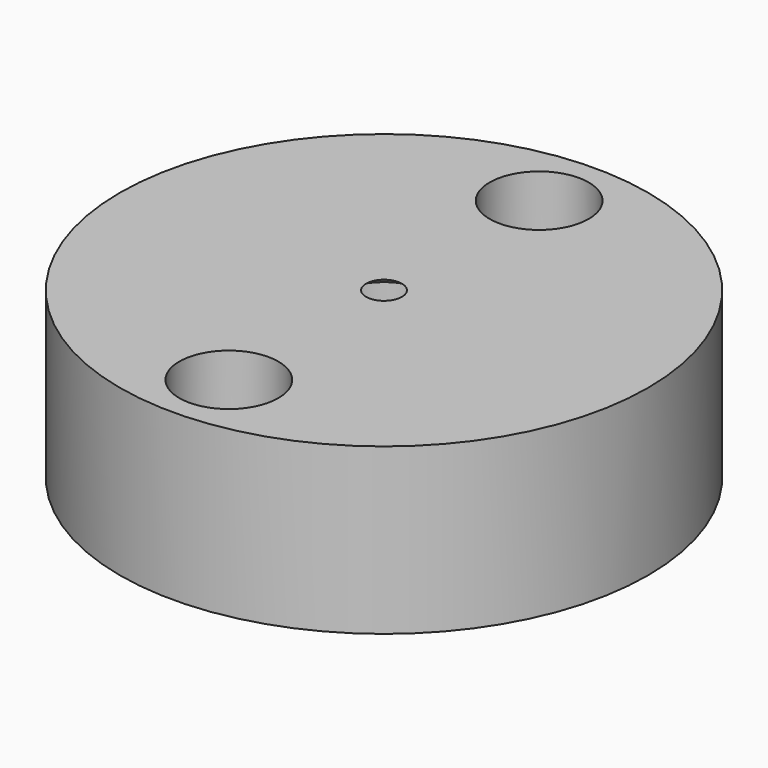
from build123d import *

# Parameters (mm, degrees)
F0_R     = 16
F0_R_2   = 3
F1_DEPTH = 10
F2_D     = 5.5
F2_DEPTH = 9
F2_TIP   = 1.6523667023


with BuildPart() as f1:
    # F0 (on Top) → F1 (new body)
    with BuildSketch(Plane.XY):
        Circle(F0_R)
        with Locations((0, -11.75)):
            Circle(F0_R_2, mode=Mode.SUBTRACT)
        with Locations((0, 11.75)):
            Circle(F0_R_2, mode=Mode.SUBTRACT)
    extrude(amount=F1_DEPTH)

    # F2
    with Locations(Plane(origin=(0, 0, 0), x_dir=(1, 0, 0), z_dir=(0, 0, -1))):
        with Locations((0, 0)):
            Hole(F2_D / 2, depth=F2_DEPTH)
            with Locations((0, 0, -(F2_DEPTH + F2_TIP / 2))):  # 118° drill point
                Cone(0, F2_D / 2, F2_TIP, mode=Mode.SUBTRACT)


solid = f1.part
